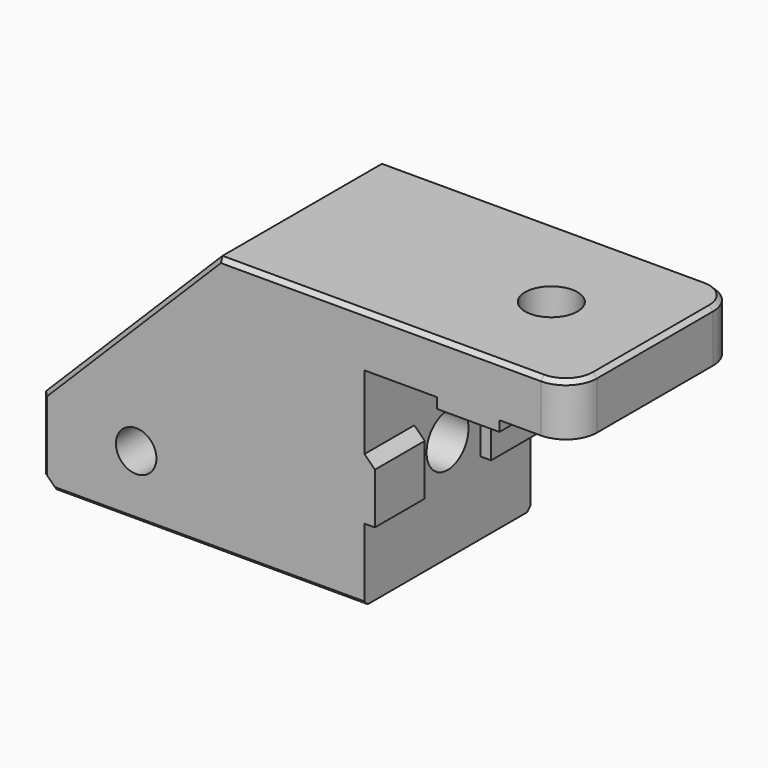
from build123d import *

# Parameters (mm, degrees)
CYLINDER022_R                        = 1.95
CYLINDER022_DEPTH                    = 10
CYLINDER021_R                        = 1.95
CYLINDER021_DEPTH                    = 10
BOX026_W                             = 2
BOX026_H                             = 6
BOX026_DEPTH                         = 5.9
BOX027_W                             = 2
BOX027_H                             = 6
BOX027_DEPTH                         = 5.9
CHAMFER004013007011015006009004_SIZE = 1
CYLINDER018_R                        = 2.525
CYLINDER018_DEPTH                    = 37
CYLINDER019_R                        = 4.75
CYLINDER019_DEPTH                    = 8
CYLINDER017_R                        = 2.65
CYLINDER017_DEPTH                    = 2
CYLINDER016_R                        = 6.55
CYLINDER016_DEPTH                    = 5
BOX030_W                             = 12
BOX030_H                             = 8
BOX030_DEPTH                         = 10
BOX024_W                             = 31
BOX024_H                             = 20
BOX024_DEPTH                         = 25
CHAMFER004013007011015006009005_SIZE = 17
CHAMFER004013007011015006009006_SIZE = 1
BOX028_W                             = 6
BOX028_H                             = 7
BOX028_DEPTH                         = 1
BOX029_W                             = 6
BOX029_H                             = 7
BOX029_DEPTH                         = 1
CYLINDER020_R                        = 2.525
CYLINDER020_DEPTH                    = 10
BOX025_W                             = 20
BOX025_H                             = 20
BOX025_DEPTH                         = 5
FILLET001_R                          = 3
CHAMFER004013007011015006009007_SIZE = 0.4


with BuildPart() as cylinder022:
    # Cylinder022 → Cylinder022 (new body)
    with BuildSketch(Plane(origin=(24, 14, 41), x_dir=(1, 0, 0), z_dir=(0, -1, 0))):
        Circle(CYLINDER022_R)
    extrude(amount=CYLINDER022_DEPTH)


with BuildPart() as fusion004031:
    # Cylinder021 → Cylinder021 (new body)
    with BuildSketch(Plane(origin=(24, -4, 41), x_dir=(1, 0, 0), z_dir=(0, -1, 0))):
        Circle(CYLINDER021_R)
    extrude(amount=CYLINDER021_DEPTH)

    # Fusion004031: union Cylinder022
    add(cylinder022.part)


with BuildPart() as fusion004031_1:
    # Fusion004031 placement: moved
    add(fusion004031.part.moved(Location((1, 0, 0))))


with BuildPart() as cube026:
    # Box026 → Box026 (new body)
    with BuildSketch(Plane(origin=(46, -10, 47), x_dir=(1, 0, 0), z_dir=(0, 0, 1))):
        with Locations((1, 3)):
            Rectangle(BOX026_W, BOX026_H)
    extrude(amount=BOX026_DEPTH)


with BuildPart() as chamfer004013007011015006009004:
    # Box027 → Box027 (new body)
    with BuildSketch(Plane(origin=(46, 4, 47), x_dir=(1, 0, 0), z_dir=(0, 0, 1))):
        with Locations((1, 3)):
            Rectangle(BOX027_W, BOX027_H)
    extrude(amount=BOX027_DEPTH)

    # Fusion004032: union Cube026
    add(cube026.part)


with BuildPart() as chamfer004013007011015006009004_1:
    # Fusion004032 placement: moved
    add(chamfer004013007011015006009004.part.moved(Location((0, 0, -5.1))))

    # Chamfer004013007011015006009004
    chamfer004013007011015006009004_edges = [chamfer004013007011015006009004_1.edges().sort_by_distance(p)[0] for p in [
        (48, 7, 47.8),
        (48, -7, 47.8),
    ]]
    chamfer(chamfer004013007011015006009004_edges, length=CHAMFER004013007011015006009004_SIZE)


with BuildPart() as chamfer004013007011015006009004_2:
    # Chamfer004013007011015006009004 placement: moved
    add(chamfer004013007011015006009004_1.part.moved(Location((0, 0, 0.1))))


with BuildPart() as cylinder018:
    # Cylinder018 → Cylinder018 (new body)
    with BuildSketch(Plane(origin=(14, 0, 45), x_dir=(0, 0, -1), z_dir=(1, 0, 0))):
        Circle(CYLINDER018_R)
    extrude(amount=CYLINDER018_DEPTH)


with BuildPart() as fusion004035:
    # Cylinder019 → Cylinder019 (new body)
    with BuildSketch(Plane(origin=(14, 0, 45), x_dir=(0, 0, -1), z_dir=(1, 0, 0))):
        Circle(CYLINDER019_R)
    extrude(amount=CYLINDER019_DEPTH)

    # Fusion004035: union Cylinder018
    add(cylinder018.part)


with BuildPart() as cylinder017:
    # Cylinder017 → Cylinder017 (new body)
    with BuildSketch(Plane.XY.offset(3)):
        Circle(CYLINDER017_R)
    extrude(amount=CYLINDER017_DEPTH)


with BuildPart() as cut028006004005015:
    # Cylinder016 → Cylinder016 (new body)
    with BuildSketch(Plane.XY):
        Circle(CYLINDER016_R)
    extrude(amount=CYLINDER016_DEPTH)

    # Cut028006004005015: cut Cylinder017
    add(cylinder017.part, mode=Mode.SUBTRACT)


with BuildPart() as cut028006004005015_1:
    # Cut028006004005015 placement: moved
    add(cut028006004005015.part.moved(Location((22, 0, 33))))


with BuildPart() as fusion004030:
    # Box030 → Box030 (new body)
    with BuildSketch(Plane(origin=(7, -4, 28), x_dir=(1, 0, 0), z_dir=(0, 0, 1))):
        with Locations((6, 4)):
            Rectangle(BOX030_W, BOX030_H)
    extrude(amount=BOX030_DEPTH)

    # Fusion004030: union Cut028006004005015
    add(cut028006004005015_1.part)


with BuildPart() as cut028006004005011003:
    # Box024 → Box024 (new body)
    with BuildSketch(Plane(origin=(16, -10, 35), x_dir=(1, 0, 0), z_dir=(0, 0, 1))):
        with Locations((15.5, 10)):
            Rectangle(BOX024_W, BOX024_H)
    extrude(amount=BOX024_DEPTH)

    # Cut028006004005017: cut Fusion004030
    add(fusion004030.part, mode=Mode.SUBTRACT)

    # Chamfer004013007011015006009005
    chamfer004013007011015006009005_edges = [cut028006004005011003.edges().sort_by_distance(p)[0] for p in [
        (16, 0, 60),
    ]]
    chamfer(chamfer004013007011015006009005_edges, length=CHAMFER004013007011015006009005_SIZE)

    # Cut028006004005018: cut Fusion004035
    add(fusion004035.part, mode=Mode.SUBTRACT)

    # Chamfer004013007011015006009006
    chamfer004013007011015006009006_edges = [cut028006004005011003.edges().sort_by_distance(p)[0] for p in [
        (16, 7, 35),
        (16, -7, 35),
    ]]
    chamfer(chamfer004013007011015006009006_edges, length=CHAMFER004013007011015006009006_SIZE)

    # Fusion004025007: union Chamfer004013007011015006009004
    add(chamfer004013007011015006009004_2.part)

    # Cut028006004005011003: cut Fusion004031
    add(fusion004031_1.part, mode=Mode.SUBTRACT)


with BuildPart() as cube028:
    # Box028 → Box028 (new body)
    with BuildSketch(Plane(origin=(54, -10, 40), x_dir=(1, 0, 0), z_dir=(0, 0, 1))):
        with Locations((3, 3.5)):
            Rectangle(BOX028_W, BOX028_H)
    extrude(amount=BOX028_DEPTH)


with BuildPart() as cube029:
    # Box029 → Box029 (new body)
    with BuildSketch(Plane(origin=(54, 3, 40), x_dir=(1, 0, 0), z_dir=(0, 0, 1))):
        with Locations((3, 3.5)):
            Rectangle(BOX029_W, BOX029_H)
    extrude(amount=BOX029_DEPTH)


with BuildPart() as cylinder020:
    # Cylinder020 → Cylinder020 (new body)
    with BuildSketch(Plane(origin=(57, 0, 32), x_dir=(1, 0, 0), z_dir=(0, 0, 1))):
        Circle(CYLINDER020_R)
    extrude(amount=CYLINDER020_DEPTH)


with BuildPart() as bed_frame_mount_top:
    # Box025 → Box025 (new body)
    with BuildSketch(Plane(origin=(47, -10, 35), x_dir=(1, 0, 0), z_dir=(0, 0, 1))):
        with Locations((10, 10)):
            Rectangle(BOX025_W, BOX025_H)
    extrude(amount=BOX025_DEPTH)

    # Fillet001
    fillet001_edges = [bed_frame_mount_top.edges().sort_by_distance(p)[0] for p in [
        (67, -10, 37.5),
        (67, 10, 37.5),
    ]]
    fillet(fillet001_edges, radius=FILLET001_R)

    # Cut028006004005016: cut Cylinder020
    add(cylinder020.part, mode=Mode.SUBTRACT)


with BuildPart() as bed_frame_mount_top_1:
    # Cut028006004005016 placement: moved
    add(bed_frame_mount_top.part.moved(Location((0, 0, 6))))

    # Fusion004034: union Cube028, Cube029
    add(cube028.part)
    add(cube029.part)


with BuildPart() as bed_frame_mount_top_2:
    # Fusion004034 placement: moved
    add(bed_frame_mount_top_1.part.moved(Location((0, 0, 14))))

    # Fusion004025008: union Cut028006004005011003
    add(cut028006004005011003.part)

    # Chamfer004013007011015006009007
    chamfer004013007011015006009007_edges = [bed_frame_mount_top_2.edges().sort_by_distance(p)[0] for p in [
        (67, 0, 60),
        (55.5, 10, 60),
        (66.12132, 9.12132, 60),
        (55.5, -10, 60),
        (66.12132, -9.12132, 60),
        (40, 10, 60),
        (40, -10, 60),
        (16.5, 10, 35.5),
        (16, 10, 39.5),
        (32, 10, 35),
        (24.5, 10, 51.5),
        (24.5, -10, 51.5),
        (16.5, -10, 35.5),
        (16, -10, 39.5),
        (32, -10, 35),
    ]]
    chamfer(chamfer004013007011015006009007_edges, length=CHAMFER004013007011015006009007_SIZE)


solid = bed_frame_mount_top_2.part
